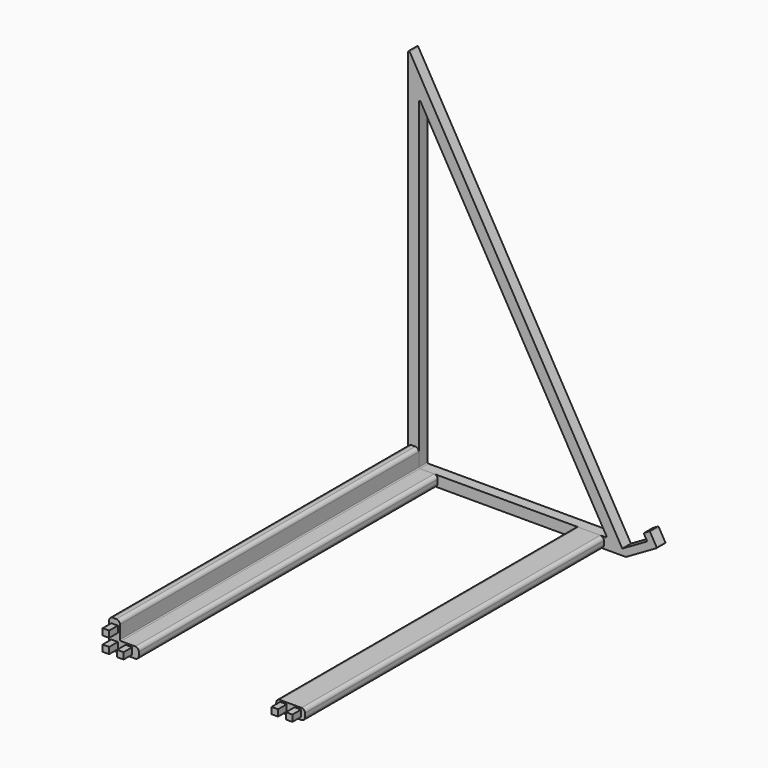
from build123d import *

# Parameters (mm, degrees)
F1_DEPTH  = 3
F2_W      = 2
F2_H      = 2
F2_W_2    = 1.8
F2_H_2    = 1.8
F3_DEPTH  = 3
F5_DEPTH  = 104
F6_DEPTH  = 3
F7_DEPTH  = 3
F6_FACE_W = 1.8
F6_FACE_H = 1.8
F8_DEPTH  = 110
F7_FACE_W = 1.8
F7_FACE_H = 1.8
F9_DEPTH  = 110


with BuildPart() as f1:
    # F0 (on Front) → F1 (new body)
    with BuildSketch(Plane.XZ):
        with BuildLine():
            Line((0, 104.066987), (0, 0))
            Line((0, 0), (60.621778, 0))
            Line((60.621778, 0), (59.621778, 1.732051))
            Line((59.621778, 1.732051), (0.466506, 104.191987))
            ThreePointArc((0.466506, 104.191987), (0.185295, 104.308469), (0, 104.066987))
        make_face()
        with BuildLine():
            ThreePointArc((3, 92.870835), (3.185295, 93.112316), (3.466506, 92.995835))
            Line((3.466506, 92.995835), (55.209119, 3.375))
            ThreePointArc((55.209119, 3.375), (55.209119, 3.125), (54.992613, 3))
            Line((54.992613, 3), (3.25, 3))
            ThreePointArc((3.25, 3), (3.073223, 3.073223), (3, 3.25))
            Line((3, 3.25), (3, 92.870835))
        make_face(mode=Mode.SUBTRACT)
        with BuildLine():
            Line((59.621778, 1.732051), (60.621778, 0))
            Line((60.621778, 0), (69.065526, 4.875))
            ThreePointArc((69.065526, 4.875), (69.182007, 5.026802), (69.157032, 5.216506))
            Line((69.157032, 5.216506), (67.407032, 8.247595))
            ThreePointArc((67.407032, 8.247595), (67.255231, 8.364077), (67.065526, 8.339102))
            Line((67.065526, 8.339102), (65.766488, 7.589102))
            ThreePointArc((65.766488, 7.589102), (65.650006, 7.4373), (65.674981, 7.247595))
            Line((65.674981, 7.247595), (66.424981, 5.948557))
            ThreePointArc((66.424981, 5.948557), (66.449957, 5.758852), (66.333475, 5.607051))
            Line((66.333475, 5.607051), (59.621778, 1.732051))
        make_face()
    extrude(amount=F1_DEPTH)

    # F2 (on face) → F3 (cut, through all)
    with BuildSketch(Plane.XZ.offset(3)):
        with Locations((1.5, 1.625)):
            Rectangle(F2_W, F2_H)
        with Locations((1.5, 1.625)):
            Rectangle(F2_W_2, F2_H_2, mode=Mode.SUBTRACT)
        with Locations((1.5, 5.625)):
            Rectangle(F2_W, F2_H)
        with Locations((1.5, 5.625)):
            Rectangle(F2_W_2, F2_H_2, mode=Mode.SUBTRACT)
        with Locations((5.5, 1.625)):
            Rectangle(F2_W, F2_H)
        with Locations((5.5, 1.625)):
            Rectangle(F2_W_2, F2_H_2, mode=Mode.SUBTRACT)
        with Locations((52.5, 1.625)):
            Rectangle(F2_W, F2_H)
        with Locations((52.5, 1.625)):
            Rectangle(F2_W_2, F2_H_2, mode=Mode.SUBTRACT)
        with Locations((48.5, 1.625)):
            Rectangle(F2_W, F2_H)
        with Locations((48.5, 1.625)):
            Rectangle(F2_W_2, F2_H_2, mode=Mode.SUBTRACT)
        with Locations((1.5, 5.625)):
            Rectangle(F2_W_2, F2_H_2)
        with Locations((1.5, 1.625)):
            Rectangle(F2_W_2, F2_H_2)
        with Locations((5.5, 1.625)):
            Rectangle(F2_W_2, F2_H_2)
        with Locations((48.5, 1.625)):
            Rectangle(F2_W_2, F2_H_2)
        with Locations((52.5, 1.625)):
            Rectangle(F2_W_2, F2_H_2)
    extrude(amount=-F3_DEPTH, mode=Mode.SUBTRACT)


with BuildPart() as f5:
    # F4 (on face) → F5 (new body)
    with BuildSketch(Plane.XZ.offset(3)):
        with BuildLine():
            Line((2, 8), (1, 8))
            ThreePointArc((1, 8), (0.292893, 7.707107), (0, 7))
            Line((0, 7), (0, 1))
            ThreePointArc((0, 1), (0.292893, 0.292893), (1, 0))
            Line((1, 0), (3, 0))
            Line((3, 0), (3, 3.25))
            Line((3, 3.25), (3, 7))
            ThreePointArc((3, 7), (2.707107, 7.707107), (2, 8))
        make_face()
        with BuildLine():
            ThreePointArc((3.25, 3), (3.073223, 3.073223), (3, 3.25))
            Line((3, 3.25), (3, 0))
            Line((3, 0), (3.25, 0))
            Line((3.25, 0), (3.25, 3))
        make_face()
        with BuildLine():
            Line((7.25, 3), (3.25, 3))
            Line((3.25, 3), (3.25, 0))
            Line((3.25, 0), (7.25, 0))
            ThreePointArc((7.25, 0), (7.957107, 0.292893), (8.25, 1))
            Line((8.25, 1), (8.25, 2))
            ThreePointArc((8.25, 2), (7.957107, 2.707107), (7.25, 3))
        make_face()
        with BuildLine():
            Line((53.5, 3), (47.5, 3))
            ThreePointArc((47.5, 3), (46.792893, 2.707107), (46.5, 2))
            Line((46.5, 2), (46.5, 1))
            ThreePointArc((46.5, 1), (46.792893, 0.292893), (47.5, 0))
            Line((47.5, 0), (53.5, 0))
            ThreePointArc((53.5, 0), (54.207107, 0.292893), (54.5, 1))
            Line((54.5, 1), (54.5, 2))
            ThreePointArc((54.5, 2), (54.207107, 2.707107), (53.5, 3))
        make_face()
    extrude(amount=F5_DEPTH)

    # F2 (on face) → F6 (join)
    with BuildSketch(Plane.XZ.offset(3)):
        with Locations((1.5, 5.625)):
            Rectangle(F2_W_2, F2_H_2)
        with Locations((1.5, 1.625)):
            Rectangle(F2_W_2, F2_H_2)
        with Locations((5.5, 1.625)):
            Rectangle(F2_W_2, F2_H_2)
    extrude(amount=-F6_DEPTH)

    # F2 (on face) → F7 (join)
    with BuildSketch(Plane.XZ.offset(3)):
        with Locations((52.5, 1.625)):
            Rectangle(F2_W_2, F2_H_2)
        with Locations((48.5, 1.625)):
            Rectangle(F2_W_2, F2_H_2)
    extrude(amount=-F7_DEPTH)

    # F6_face (on face) → F8 (join)
    with BuildSketch(Plane(origin=(5.5, 0, 1.625), x_dir=(1, 0, 0), z_dir=(0, 1, 0))):
        Rectangle(F6_FACE_W, F6_FACE_H)
        with Locations((-4, 0)):
            Rectangle(F6_FACE_W, F6_FACE_H)
        with Locations((-4, -4)):
            Rectangle(F6_FACE_W, F6_FACE_H)
    extrude(amount=-F8_DEPTH)

    # F7_face (on face) → F9 (join)
    with BuildSketch(Plane(origin=(52.5, 0, 1.625), x_dir=(1, 0, 0), z_dir=(0, 1, 0))):
        Rectangle(F7_FACE_W, F7_FACE_H)
        with Locations((-4, 0)):
            Rectangle(F7_FACE_W, F7_FACE_H)
    extrude(amount=-F9_DEPTH)


solid = Compound([f1.part, f5.part])
